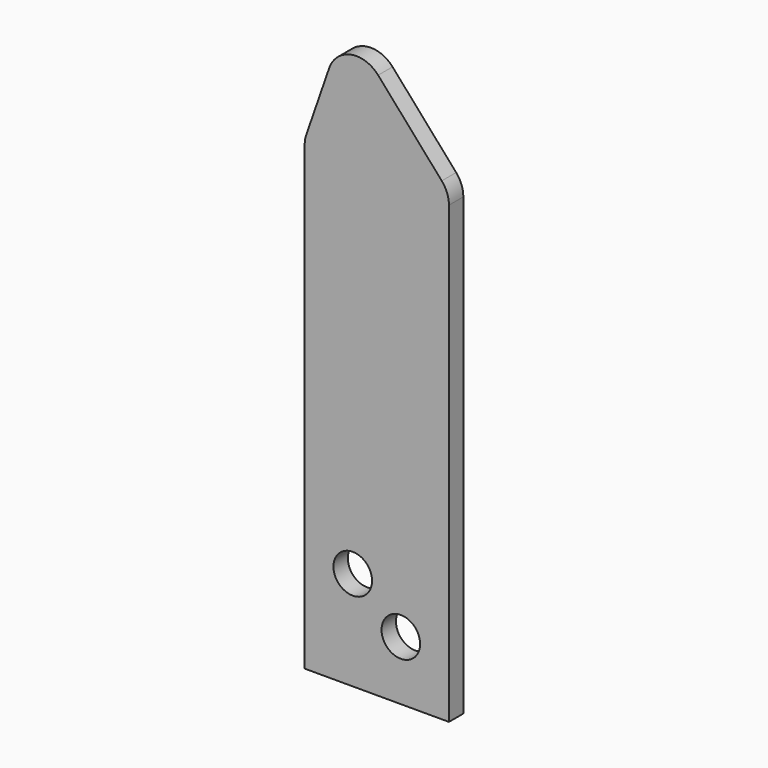
from build123d import *

# Parameters (mm, degrees)
F0_R     = 6.793484
F1_DEPTH = 6.35


with BuildPart() as f1:
    # F0 (on Front) → F1 (new body)
    with BuildSketch(Plane.XZ):
        with BuildLine():
            Line((0, 162.299106), (0, 0))
            Line((0, 0), (16.933333, 0))
            Line((16.933333, 0), (33.866667, 0))
            Line((33.866667, 0), (50.8, 0))
            Line((50.8, 0), (50.8, 160.177179))
            ThreePointArc((50.8, 160.177179), (50.146535, 163.762061), (48.2702, 166.885804))
            Line((48.2702, 166.885804), (25.875763, 192.356604))
            ThreePointArc((25.875763, 192.356604), (16.287631, 195.617538), (8.644919, 188.97262))
            Line((8.644919, 188.97262), (0.559356, 165.623746))
            ThreePointArc((0.559356, 165.623746), (0.140815, 163.984789), (0, 162.299106))
        make_face()
        with Locations((16.933333, 34.916751)):
            Circle(F0_R, mode=Mode.SUBTRACT)
        with Locations((33.866667, 20.848828)):
            Circle(F0_R, mode=Mode.SUBTRACT)
    extrude(amount=F1_DEPTH)


solid = f1.part
